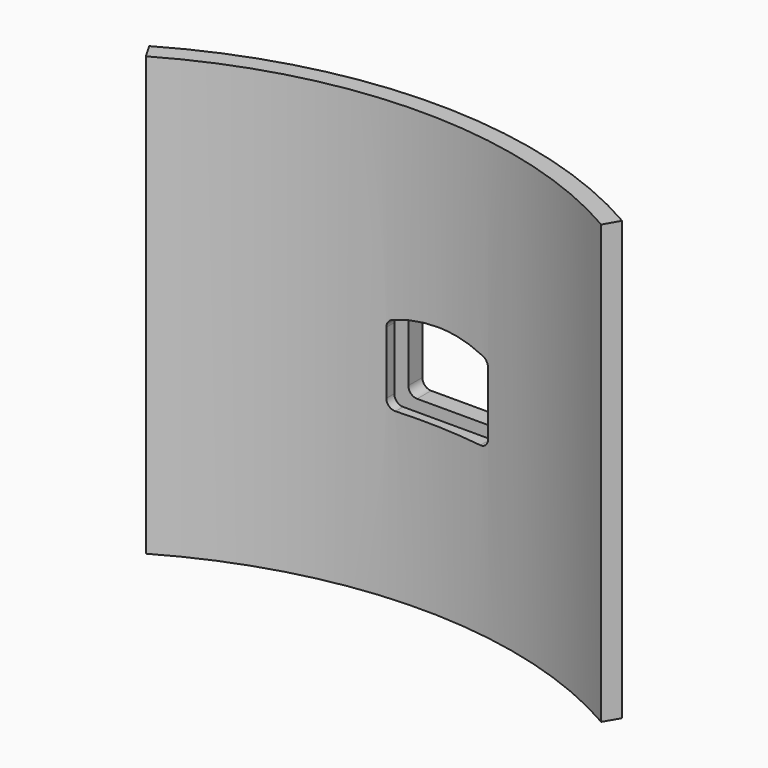
from build123d import *

# Parameters (mm, degrees)
BOX002_W                    = 23
BOX002_H                    = 2
BOX002_DEPTH                = 40
EXTRUDE_DEPTH               = 6
EXTRUDE001_DEPTH            = 6
THICKNESS_T                 = 1
BOX001_W                    = 24
BOX001_H                    = 4
BOX001_DEPTH                = 45
CYLINDER001_W               = 52
CYLINDER001_H               = 50
CYLINDER001_ANGLE           = 60
CYLINDER001_PLACEMENT_ANGLE = 60
CYLINDER_W                  = 54
CYLINDER_H                  = 50
CYLINDER_ANGLE              = 60
CYLINDER_PLACEMENT_ANGLE    = 60


with BuildPart() as slot:
    # Box002 → Box002 (new body)
    with BuildSketch(Plane(origin=(-1, 44, 2.5), x_dir=(1, 0, 0), z_dir=(0, 0, 1))):
        with Locations((11.5, 1)):
            Rectangle(BOX002_W, BOX002_H)
    extrude(amount=BOX002_DEPTH)


with BuildPart() as extrude_body:
    with BuildSketch(Plane(origin=(8.5, 45, 6), x_dir=(1, 0, 0), z_dir=(0, 1, 0))):
        with BuildLine():
            Line((5, 4), (-5, 4))
            Line((-5, 4), (-5, -3.142136))
            ThreePointArc((-5, -3.142136), (-2.53653, -3.783978), (0, -4))
            ThreePointArc((0, -4), (2.53653, -3.783978), (5, -3.142136))
            Line((5, -3.142136), (5, 4))
        make_face()
    extrude(amount=EXTRUDE_DEPTH)


with BuildPart() as extrude001:
    with BuildSketch(Plane(origin=(8.5, 45, 6), x_dir=(1, 0, 0), z_dir=(0, 1, 0))):
        with BuildLine():
            Line((5, 4), (-5, 4))
            Line((-5, 4), (-5, -3.142136))
            ThreePointArc((-5, -3.142136), (-2.53653, -3.783978), (0, -4))
            ThreePointArc((0, -4), (2.53653, -3.783978), (5, -3.142136))
            Line((5, -3.142136), (5, 4))
        make_face()
    extrude(amount=EXTRUDE001_DEPTH)


with BuildPart() as pin_opening:
    # Thickness base: copy of Extrude body
    add(extrude_body.part)

    # Thickness
    thickness_openings = [pin_opening.faces().sort_by_distance(p)[0] for p in [
        (8.5, 51, 5.862901),
    ]]
    offset(amount=THICKNESS_T, openings=thickness_openings)

    # Fusion002: union Extrude body, Extrude001
    add(extrude_body.part)
    add(extrude001.part)


with BuildPart() as pin_opening_1:
    # Fusion002 placement: moved
    add(pin_opening.part.moved(Location((2, -3, 18))))


with BuildPart() as latch:
    # Box001 → Box001 (new body)
    with BuildSketch(Plane(origin=(-3, 44, 0), x_dir=(1, 0, 0), z_dir=(0, 0, 1))):
        with Locations((12, 2)):
            Rectangle(BOX001_W, BOX001_H)
    extrude(amount=BOX001_DEPTH)


with BuildPart() as bottle_wall001:
    # Cylinder001 → Cylinder001 (revolve)
    with BuildSketch(Plane.XZ):
        with Locations((26, 25)):
            Rectangle(CYLINDER001_W, CYLINDER001_H)
    revolve(axis=Axis((0, 0, 0), (0, 0, 1)), revolution_arc=CYLINDER001_ANGLE)


with BuildPart() as bottle_wall001_1:
    # Cylinder001 placement: moved
    add(bottle_wall001.part.moved(Location((8.5, -7, 0))).rotate(Axis((8.5, -7, 0), (0, 0, 1)), CYLINDER001_PLACEMENT_ANGLE))


with BuildPart() as cut004:
    # Cylinder → Cylinder (revolve)
    with BuildSketch(Plane.XZ):
        with Locations((27, 25)):
            Rectangle(CYLINDER_W, CYLINDER_H)
    revolve(axis=Axis((0, 0, 0), (0, 0, 1)), revolution_arc=CYLINDER_ANGLE)


with BuildPart() as cut004_1:
    # Cylinder placement: moved
    add(cut004.part.moved(Location((8.5, -7, 0))).rotate(Axis((8.5, -7, 0), (0, 0, 1)), CYLINDER_PLACEMENT_ANGLE))

    # Cut: cut bottle_wall001
    add(bottle_wall001_1.part, mode=Mode.SUBTRACT)


with BuildPart() as cut004_2:
    # Cut placement: moved
    add(cut004_1.part.moved(Location((0, -2, 0))))

    # Fusion: union latch
    add(latch.part)

    # Fusion001: union latch
    add(latch.part)

    # Cut003: cut pin opening
    add(pin_opening_1.part, mode=Mode.SUBTRACT)

    # Cut004: cut slot
    add(slot.part, mode=Mode.SUBTRACT)


solid = cut004_2.part
